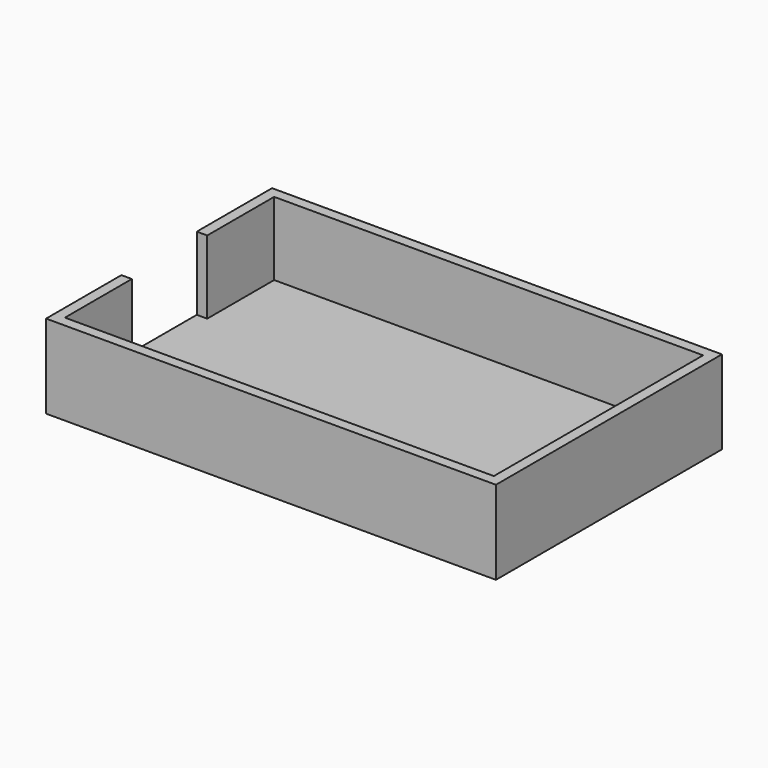
from build123d import *

# Parameters (mm, degrees)
F1_DEPTH = 3.175
F2_DEPTH = 25.4


with BuildPart() as f1:
    # F0 (on Top) → F1 (new body)
    with BuildSketch(Plane.XY):
        Polygon((62.195573, -39.6875), (62.195573, 39.6875), (-67.979427, 39.6875), (-67.979427, 14.3002), (-67.979427, 0), (-67.979427, -14.3002), (-67.979427, -39.6875), (-2.891927, -39.6875), align=None)
        Polygon((-67.979427, 0), (-67.979427, 14.3002), (-71.154427, 14.3002), (-71.154427, -14.3002), (-67.979427, -14.3002), align=None)
    extrude(amount=F1_DEPTH)

    # F0 (on Top) → F2 (join)
    with BuildSketch(Plane.XY):
        Polygon((-67.979427, 39.6875), (62.195573, 39.6875), (62.195573, -39.6875), (-2.891927, -39.6875), (-67.979427, -39.6875), (-67.979427, -14.3002), (-71.154427, -14.3002), (-71.154427, -42.8625), (65.370573, -42.8625), (65.370573, 42.8625), (-71.154427, 42.8625), (-71.154427, 14.3002), (-67.979427, 14.3002), align=None)
    extrude(amount=F2_DEPTH)


solid = f1.part
